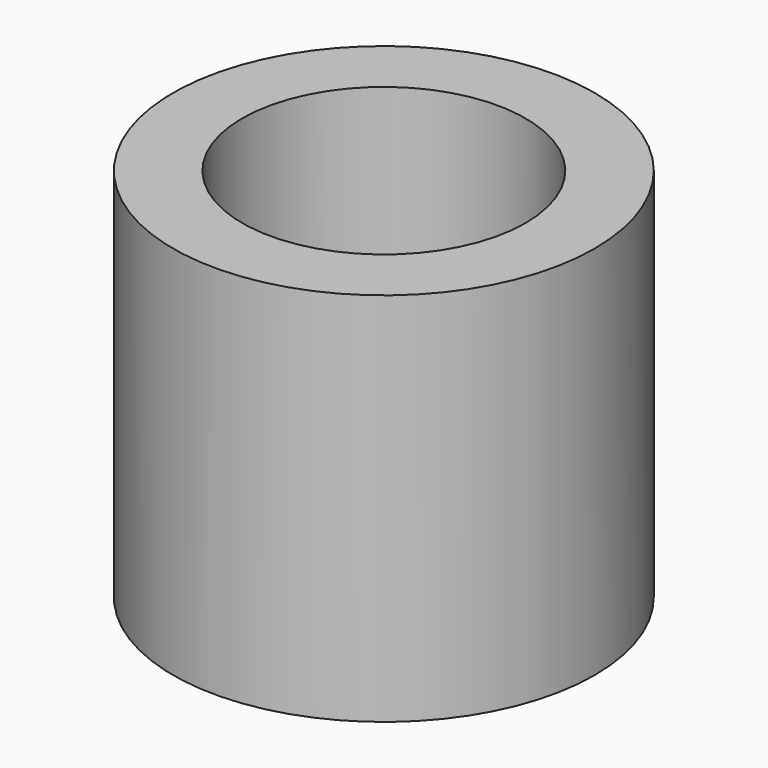
from build123d import *

# Parameters (mm, degrees)
SKETCH_R   = 5.95
SKETCH_R_2 = 4
PAD_DEPTH  = 10.6


with BuildPart() as part:
    # Sketch → Pad (new body)
    with BuildSketch(Plane.XY):
        Circle(SKETCH_R)
        Circle(SKETCH_R_2, mode=Mode.SUBTRACT)
    extrude(amount=PAD_DEPTH)


solid = part.part
